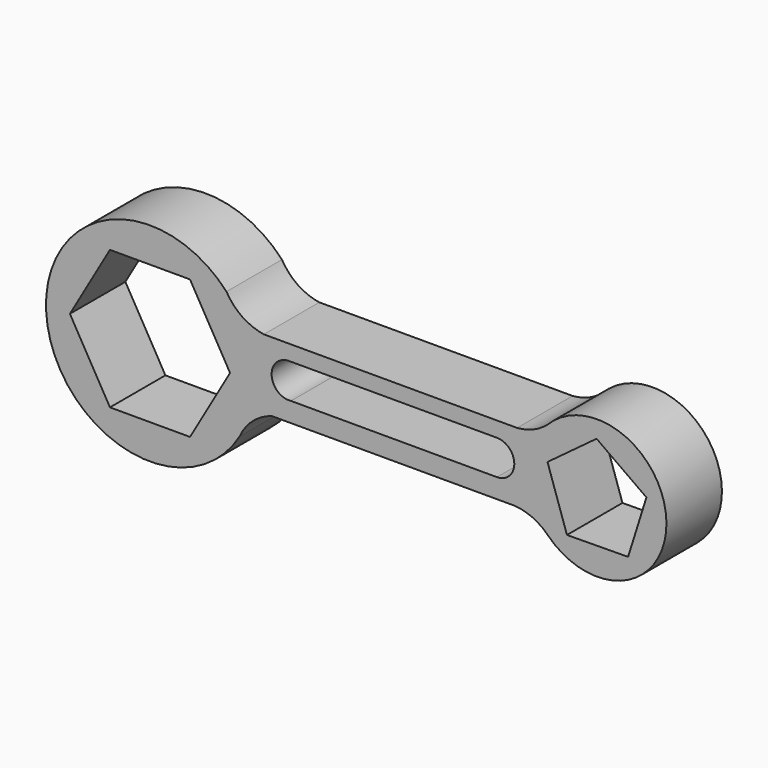
from build123d import *

# Parameters (mm, degrees)
F1_DEPTH = 508


with BuildPart() as f1:
    # F0 (on Front) → F1 (new body)
    with BuildSketch(Plane.XZ):
        with BuildLine():
            ThreePointArc((-947.2619578276, 93.9026913845), (-1056.6790544487, 127.703552485), (-1151.1092002442, 192.4920299263))
            ThreePointArc((-1151.1092002442, 192.4920299263), (-1053.1182818262, -11.6827471974), (-1019.4637150901, -235.6401758389))
            ThreePointArc((-1019.4637150901, -235.6401758389), (-1039.2655032149, -408.2258481562), (-1097.6417053505, -571.8416912961))
            ThreePointArc((-1097.6417053505, -571.8416912961), (-1007.8568339605, -474.6912905901), (-890.2647728497, -414.0973086155))
            Line((-890.2647728497, -414.0973086155), (889.4340112771, -414.0973086155))
            ThreePointArc((889.4340112771, -414.0973086155), (1018.9394643483, -446.0910721436), (1129.4779597277, -520.7670677452))
            ThreePointArc((1129.4779597277, -520.7670677452), (986.4254187858, -167.0971956524), (1129.8815081555, 186.4091809786))
            ThreePointArc((1129.8815081555, 186.4091809786), (1026.5410895836, 122.2348170521), (908.2411244478, 93.9026913845))
            Line((908.2411244478, 93.9026913845), (-947.2619578276, 93.9026913845))
        make_face()
        with BuildLine():
            ThreePointArc((-778.4235433832, -270.8218384605), (-889.7869294596, -133.174522481), (-755.3338637375, -17.974867652))
            Line((-755.3338637375, -17.974867652), (760.6658055939, -17.7239545856))
            ThreePointArc((760.6658055939, -17.7239545856), (887.6868225516, -144.7506629329), (760.6123854239, -271.7239310299))
            Line((760.6123854239, -271.7239310299), (-748.3506385934, -270.839465433))
            ThreePointArc((-748.3506385934, -270.839465433), (-763.3876145761, -271.7239310299), (-778.4235433832, -270.8218384605))
        make_face(mode=Mode.SUBTRACT)
        with BuildLine():
            ThreePointArc((-1151.1092002442, 192.4920299263), (-1189.3157964675, 233.9554961626), (-1220.984886698, 280.6034516513))
            ThreePointArc((-1220.984886698, 280.6034516513), (-2539.2254076437, -315.8973705211), (-1125.2786792228, -623.02267248))
            ThreePointArc((-1125.2786792228, -623.02267248), (-1112.4383246123, -596.9040048797), (-1097.6417053505, -571.8416912961))
            ThreePointArc((-1097.6417053505, -571.8416912961), (-1039.2655032149, -408.2258481562), (-1019.4637150901, -235.6401758389))
            ThreePointArc((-1019.4637150901, -235.6401758389), (-1053.1182818262, -11.6827471974), (-1151.1092002442, 192.4920299263))
        make_face()
        Polygon((-2368.0515885867, -235.6401758389), (-2074.7576518384, 272.3598241611), (-1488.1697783418, 272.3598241611), (-1194.8758415934, -235.6401758389), (-1488.1697783418, -743.6401758389), (-2074.7576518384, -743.6401758389), align=None, mode=Mode.SUBTRACT)
        with BuildLine():
            ThreePointArc((2002.4253360736, -167.3870845851), (1685.3123909223, 303.3847628009), (1129.8815081555, 186.4091809786))
            ThreePointArc((1129.8815081555, 186.4091809786), (986.4254187858, -167.0971956524), (1129.4779597277, -520.7670677452))
            ThreePointArc((1129.4779597277, -520.7670677452), (1134.3409484138, -525.5689714223), (1139.1170233054, -530.4573296862))
            ThreePointArc((1139.1170233054, -530.4573296862), (1691.361083354, -635.6608415298), (2002.4253360736, -167.3870845851))
        make_face()
        Polygon((1273.5395154992, -477.8229946683), (1130.9257685231, -53.2421574506), (1490.6560690059, 213.5942701106), (1855.5953684637, -46.0725854377), (1721.4099588763, -473.3919554796), align=None, mode=Mode.SUBTRACT)
    extrude(amount=F1_DEPTH)


solid = f1.part
